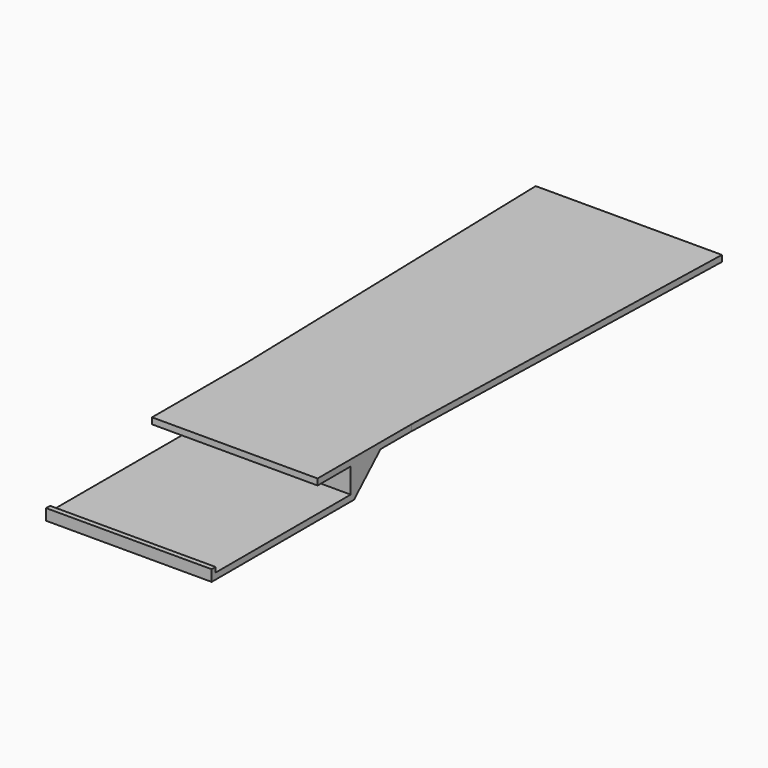
from build123d import *

# Parameters (mm, degrees)
F1_DEPTH = 22.5
F2_W     = 40
F2_H     = 32.0495848726
F3_DEPTH = 25


with BuildPart() as f1:
    # F0 (on Right) → F1 (new body, symmetric)
    with BuildSketch(Plane.YZ):
        Polygon((65.8282197913, 0), (-53.1717802216, 0), (-53.1717802216, -1.5), (-43.1717802087, -1.5), (-43.1717802087, -7.5), (-83.9717802087, -7.5), (-83.9717802087, -6.3), (-85.1717802087, -6.3), (-85.1717802087, -9), (-42.1717802087, -9), (-34.1717802087, -1.5), (65.8282197913, -1.5), align=None)
    extrude(amount=F1_DEPTH, both=True)

    # F2 (on face) → F3 (intersect)
    with BuildSketch(Plane.XY):
        Polygon((22.5, 65.8282197913), (-22.5, 65.8282197913), (-20, -24.7676335275), (-20, -53.1717802216), (20, -53.1717802216), (20, -24.7676335275), align=None)
        with Locations((0, -69.1965726579)):
            Rectangle(F2_W, F2_H)
    extrude(amount=-F3_DEPTH, mode=Mode.INTERSECT)


solid = f1.part
